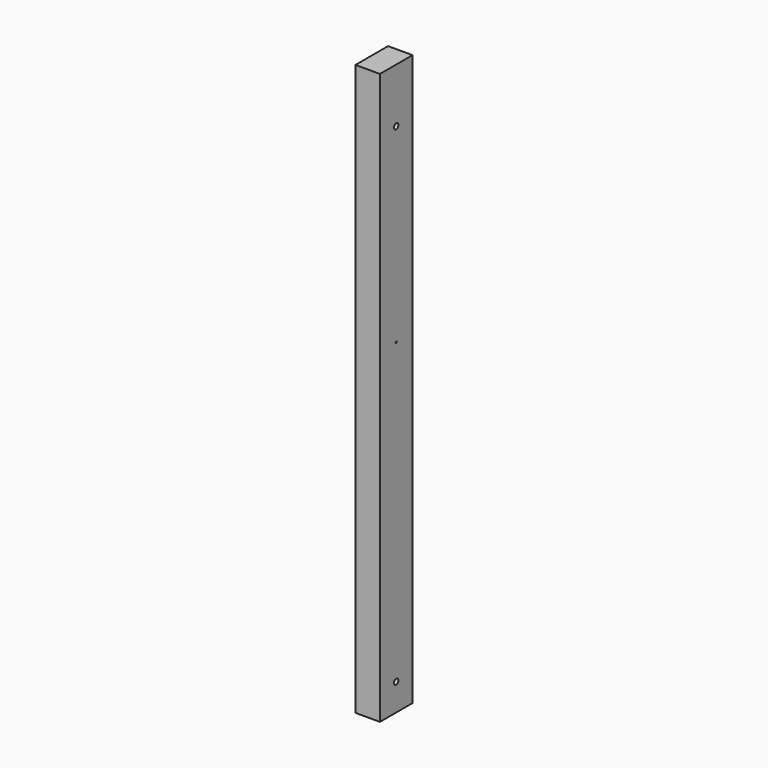
from build123d import *

# Parameters (mm, degrees)
F1_DEPTH = 2100
F3_D     = 20
F5_D     = 20
F5_DEPTH = 40
F5_TIP   = 6.0086061903
F6_D     = 5
F6_DEPTH = 25
F6_TIP   = 1.5021515476


with BuildPart() as f1:
    # F0 (on Top) → F1 (new body)
    with BuildSketch(Plane.XY):
        Polygon((-34.2555230263, 141.6535690603), (-45, 141.6535690603), (-45, -8.3464309397), (45, -8.3464309397), (45, 141.6535690603), (34.2555230263, 141.6535690603), align=None)
    extrude(amount=F1_DEPTH)

    # F3 (through all)
    with Locations(Plane.YZ.offset(45)):
        with Locations((66.6535690603, 1900)):
            Hole(F3_D / 2)

    # F5
    with Locations(Plane.YZ.offset(45)):
        with Locations((66.6535690603, 100)):
            Hole(F5_D / 2, depth=F5_DEPTH)
            with Locations((0, 0, -(F5_DEPTH + F5_TIP / 2))):  # 118° drill point
                Cone(0, F5_D / 2, F5_TIP, mode=Mode.SUBTRACT)

    # F6
    with Locations(Plane.YZ.offset(45)):
        with Locations((66.6535690603, 1200)):
            Hole(F6_D / 2, depth=F6_DEPTH)
            with Locations((0, 0, -(F6_DEPTH + F6_TIP / 2))):  # 118° drill point
                Cone(0, F6_D / 2, F6_TIP, mode=Mode.SUBTRACT)


solid = f1.part
